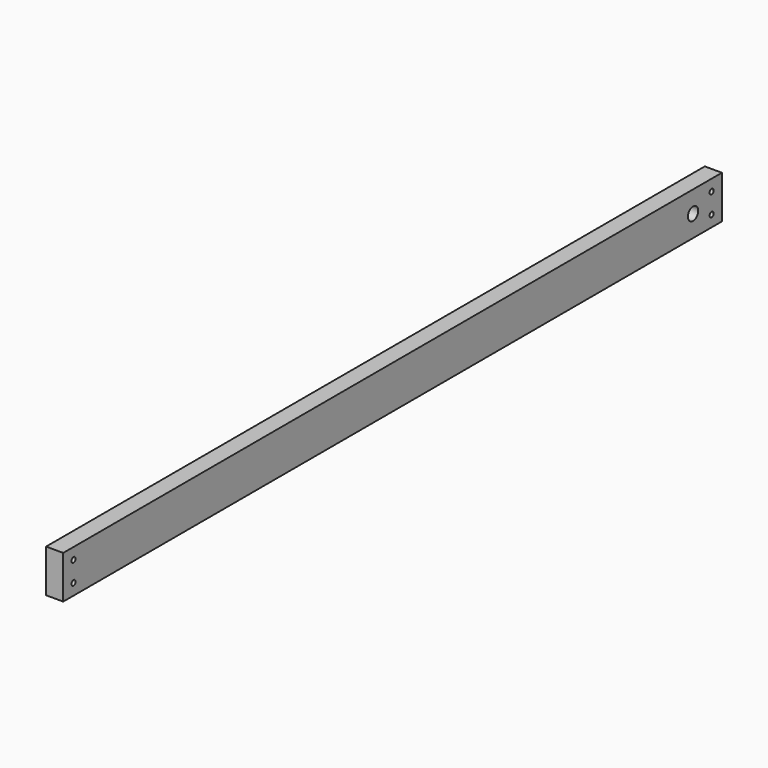
from build123d import *

# Parameters (mm, degrees)
F0_R     = 3.773713
F1_DEPTH = 25.4
F2_R     = 9.525
F3_DEPTH = 25.401


with BuildPart() as f1:
    # F0 (on Right) → F1 (new body)
    with BuildSketch(Plane.YZ):
        with BuildLine():
            Line((1150.261795, 68.472956), (-49.888205, 68.472956))
            Line((-49.888205, 68.472956), (-49.888205, 4.972956))
            Line((-49.888205, 4.972956), (1150.261795, 4.972956))
            Line((1150.261795, 4.972956), (1150.261795, 18.01149))
            ThreePointArc((1150.261795, 18.01149), (1146.488082, 21.785202), (1150.261795, 25.558915))
            Line((1150.261795, 25.558915), (1150.261795, 47.886996))
            ThreePointArc((1150.261795, 47.886996), (1146.488082, 51.660709), (1150.261795, 55.434422))
            Line((1150.261795, 55.434422), (1150.261795, 68.472956))
        make_face()
        with Locations((-30.838205, 21.785202)):
            Circle(F0_R, mode=Mode.SUBTRACT)
        with Locations((-30.838205, 51.660709)):
            Circle(F0_R, mode=Mode.SUBTRACT)
        with BuildLine():
            Line((1169.311795, 68.472956), (1150.261795, 68.472956))
            Line((1150.261795, 68.472956), (1150.261795, 55.434422))
            ThreePointArc((1150.261795, 55.434422), (1152.930212, 54.329127), (1154.035507, 51.660709))
            ThreePointArc((1154.035507, 51.660709), (1152.930212, 48.992291), (1150.261795, 47.886996))
            Line((1150.261795, 47.886996), (1150.261795, 25.558915))
            ThreePointArc((1150.261795, 25.558915), (1152.930212, 24.45362), (1154.035507, 21.785202))
            ThreePointArc((1154.035507, 21.785202), (1152.930212, 19.116784), (1150.261795, 18.01149))
            Line((1150.261795, 18.01149), (1150.261795, 4.972956))
            Line((1150.261795, 4.972956), (1169.311795, 4.972956))
            Line((1169.311795, 4.972956), (1169.311795, 68.472956))
        make_face()
    extrude(amount=F1_DEPTH)

    # F2 (on face) → F3 (cut, through all)
    with BuildSketch(Plane.YZ.offset(25.4)):
        with Locations((1115.862012, 36.722956)):
            Circle(F2_R)
    extrude(amount=-F3_DEPTH, mode=Mode.SUBTRACT)


solid = f1.part
